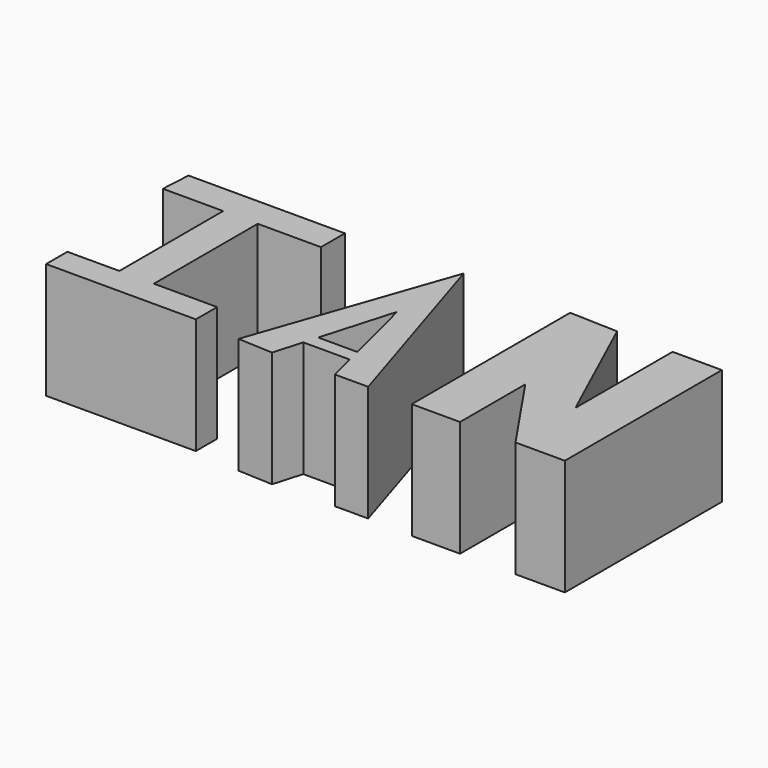
from build123d import *

# Parameters (mm, degrees)
F0_W     = 1.9364729524
F0_H     = 16.7827885598
F0_W_2   = 2.528176643
F1_DEPTH = 15


with BuildPart() as f1:
    # F0 (on Top) → F1 (new body)
    with BuildSketch(Plane.XY):
        Polygon((-44.9692644179, 33.9959040284), (-44.9692644179, 37.8688536584), (-50.0256177038, 37.8688536584), (-55.0819709897, 37.8688536584), (-55.2971325815, 33.9959040284), (-47.4974410608, 33.9959040284), align=None)
        Polygon((-34.8565578461, 37.8688536584), (-44.9692644179, 37.8688536584), (-44.9692644179, 33.9959040284), (-43.0327914655, 33.9959040284), (-34.8565578461, 33.9959040284), align=None)
        Polygon((-44.9692644179, 13.7704918161), (-44.9692644179, 17.2131154686), (-47.4974410608, 17.2131154686), (-54.2213134468, 17.2131154686), (-54.2213134468, 13.7704918161), align=None)
        Polygon((-43.0327914655, 17.2131154686), (-44.9692644179, 17.2131154686), (-44.9692644179, 13.7704918161), (-34.8565578461, 13.7704918161), (-34.8565578461, 17.2131154686), align=None)
        with Locations((-44.0010279417, 25.6045097485)):
            Rectangle(F0_W, F0_H)
        with Locations((-46.2333527394, 25.6045097485)):
            Rectangle(F0_W_2, F0_H)
    extrude(amount=F1_DEPTH)


with BuildPart() as f1b:
    # F0 (on Top) → F1, piece 2 (new body)
    with BuildSketch(Plane.XY):
        Polygon((-28.831968084, 13.1250005215), (-24.3135262281, 12.9098361358), (-23.2386233684, 16.6182499781), (-22.7250179254, 18.3901882674), (-20.0102459639, 27.7561489493), (-17.6687563896, 18.3901882674), (-17.2257719301, 16.6182499781), (-16.3524597883, 13.1250005215), (-12.0491804555, 13.1250005215), (-20.0102459639, 38.5143458843), align=None)
        Polygon((-22.7250179254, 18.3901882674), (-23.2386233684, 16.6182499781), (-17.2257719301, 16.6182499781), (-17.6687563896, 18.3901882674), align=None)
    extrude(amount=F1_DEPTH)


with BuildPart() as f1c:
    # F0 (on Top) → F1, piece 3 (new body)
    with BuildSketch(Plane.XY):
        Polygon((-6.2397546135, 12.9098361358), (0, 12.9098361358), (0, 23.4528705478), (7.1727198629, 12.9098361358), (13.5553283617, 12.9098361358), (13.5553283617, 38.2991805673), (7.1727198629, 38.2991805673), (7.1727198629, 22.5922130048), (0, 38.2991805673), (-6.2397546135, 38.5143458843), align=None)
    extrude(amount=F1_DEPTH)


solid = Compound([f1.part, f1b.part, f1c.part])
